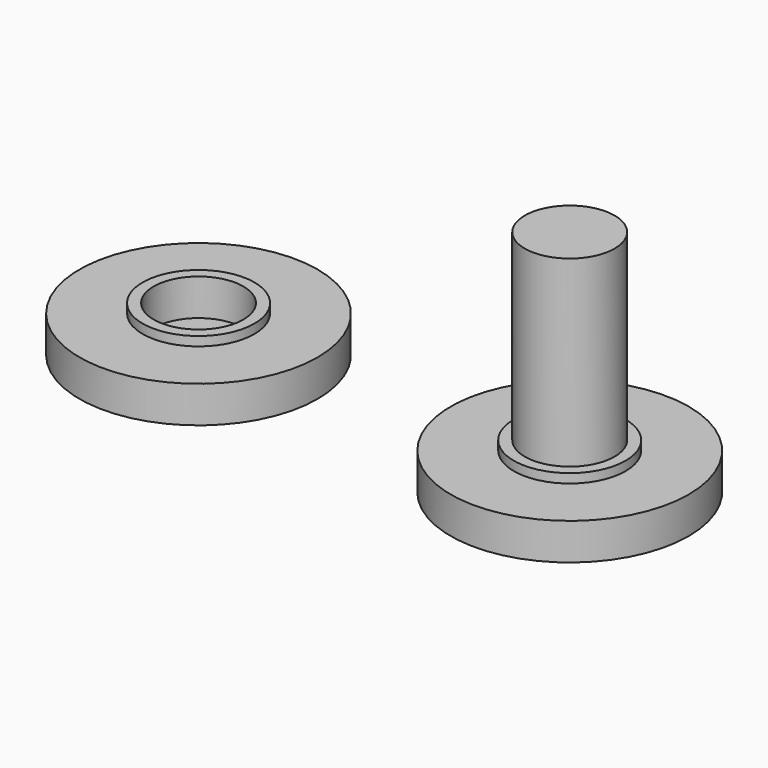
from build123d import *

# Parameters (mm, degrees)
F0_R     = 2.45
F1_DEPTH = 10.5
F0_R_2   = 6.5
F0_R_3   = 3.05
F2_DEPTH = 2
F3_DEPTH = 0.5
F4_R     = 6.5
F4_R_2   = 3.05
F4_R_3   = 2.45
F5_DEPTH = 2
F6_DEPTH = 0.5
F7_DEPTH = 1.5


with BuildPart() as f1:
    # F0 (on Top) → F1 (new body)
    with BuildSketch(Plane.XY):
        Circle(F0_R)
    extrude(amount=F1_DEPTH)

    # F0 (on Top) → F2 (join)
    with BuildSketch(Plane.XY):
        Circle(F0_R_2)
        Circle(F0_R_3, mode=Mode.SUBTRACT)
        Circle(F0_R_3)
        Circle(F0_R, mode=Mode.SUBTRACT)
        Circle(F0_R)
    extrude(amount=-F2_DEPTH)

    # F0 (on Top) → F3 (join)
    with BuildSketch(Plane.XY):
        Circle(F0_R_3)
        Circle(F0_R, mode=Mode.SUBTRACT)
    extrude(amount=F3_DEPTH)


with BuildPart() as f5:
    # F4 (on Top) → F5 (new body)
    with BuildSketch(Plane.XY):
        with Locations((-20.2644243836, 0)):
            Circle(F4_R)
        with Locations((-20.2644243836, 0)):
            Circle(F4_R_2, mode=Mode.SUBTRACT)
        with Locations((-20.2644243836, 0)):
            Circle(F4_R_2)
        with Locations((-20.2644243836, 0)):
            Circle(F4_R_3, mode=Mode.SUBTRACT)
        with Locations((-20.2644243836, 0)):
            Circle(F4_R_3)
    extrude(amount=-F5_DEPTH)

    # F4 (on Top) → F6 (join)
    with BuildSketch(Plane.XY):
        with Locations((-20.2644243836, 0)):
            Circle(F4_R_2)
        with Locations((-20.2644243836, 0)):
            Circle(F4_R_3, mode=Mode.SUBTRACT)
    extrude(amount=F6_DEPTH)

    # F4 (on Top) → F7 (cut)
    with BuildSketch(Plane.XY):
        with Locations((-20.2644243836, 0)):
            Circle(F4_R_3)
    extrude(amount=-F7_DEPTH, mode=Mode.SUBTRACT)


solid = Compound([f1.part, f5.part])
